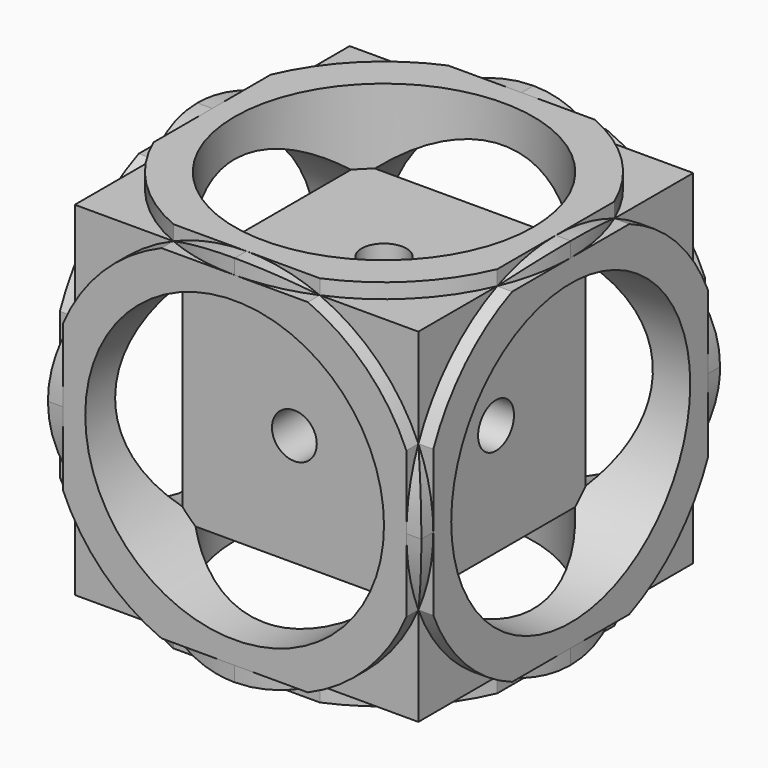
from build123d import *

# Parameters (mm, degrees)
F0_W          = 50
F0_H          = 50
F1_DEPTH      = 25
F1_DEPTH_BACK = 25
F3_D          = 40
F5_D          = 40
F7_D          = 40
F8_W          = 30
F8_H          = 30
F9_DEPTH      = 15
F9_DEPTH_BACK = 15
F17_DEPTH     = 2
F18_DEPTH     = 2
F19_DEPTH     = 2
F20_DEPTH     = 2
F21_DEPTH     = 2
F22_DEPTH     = 2
F23_DEPTH     = 2
F25_D         = 6
F27_D         = 6
F29_D         = 6


with BuildPart() as f1:
    # F0 (on Front) → F1 (new body, two sides)
    with BuildSketch(Plane.XZ) as f1_sk:
        Rectangle(F0_W, F0_H)
    extrude(amount=F1_DEPTH)
    extrude(f1_sk.sketch, amount=-F1_DEPTH_BACK)

    # F3 (through all)
    with Locations(Plane.YZ.offset(25)):
        with Locations((0, 0)):
            Hole(F3_D / 2)

    # F5 (through all)
    with Locations(Plane.XY.offset(25)):
        with Locations((0, 0)):
            Hole(F5_D / 2)

    # F7 (through all)
    with Locations(Plane.XZ.offset(25)):
        with Locations((0, 0)):
            Hole(F7_D / 2)

    # F8 (on Top) → F9 (join, two sides)
    with BuildSketch(Plane.XY) as f9_sk:
        Rectangle(F8_W, F8_H)
    extrude(amount=F9_DEPTH)
    extrude(f9_sk.sketch, amount=-F9_DEPTH_BACK)

    # F10 (on face) → F17 (cut)
    with BuildSketch(Plane(origin=(0, 25, 0), x_dir=(-1, 0, 0), z_dir=(0, 1, 0))):
        with BuildLine():
            ThreePointArc((0, 25), (17.6776695297, 17.6776695297), (25, 0))
            Line((25, 0), (25, 25))
            Line((25, 25), (0, 25))
        make_face()
        with BuildLine():
            ThreePointArc((-25, 2.61e-08), (-17.6776695204, 17.6776695389), (0, 25))
            Line((0, 25), (-25, 25))
            Line((-25, 25), (-25, 2.61e-08))
        make_face()
        with BuildLine():
            Line((-25, -25), (-5.83e-08, -25))
            ThreePointArc((-5.83e-08, -25), (-17.6776695595, -17.6776694998), (-25, 2.61e-08))
            Line((-25, 2.61e-08), (-25, -25))
        make_face()
        with BuildLine():
            Line((25, -25), (25, 0))
            ThreePointArc((25, 0), (17.677669509, -17.6776695503), (-5.83e-08, -25))
            Line((-5.83e-08, -25), (25, -25))
        make_face()
    extrude(amount=F17_DEPTH, mode=Mode.SUBTRACT)

    # F15 (on face) → F18 (cut)
    with BuildSketch(Plane.XZ.offset(25)):
        with BuildLine():
            ThreePointArc((-25, 2.61e-08), (-17.6776695204, 17.6776695389), (0, 25))
            Line((0, 25), (-25, 25))
            Line((-25, 25), (-25, 2.61e-08))
        make_face()
        with BuildLine():
            Line((-25, -25), (-5.83e-08, -25))
            ThreePointArc((-5.83e-08, -25), (-17.6776695595, -17.6776694998), (-25, 2.61e-08))
            Line((-25, 2.61e-08), (-25, -25))
        make_face()
        with BuildLine():
            Line((25, -25), (25, 0))
            ThreePointArc((25, 0), (17.677669509, -17.6776695503), (-5.83e-08, -25))
            Line((-5.83e-08, -25), (25, -25))
        make_face()
        with BuildLine():
            ThreePointArc((0, 25), (17.6776695297, 17.6776695297), (25, 0))
            Line((25, 0), (25, 25))
            Line((25, 25), (0, 25))
        make_face()
    extrude(amount=-F18_DEPTH, mode=Mode.SUBTRACT)

    # F12 (on face) → F19 (cut)
    with BuildSketch(Plane.XY.offset(25)):
        with BuildLine():
            Line((-25, -25), (-5.83e-08, -25))
            ThreePointArc((-5.83e-08, -25), (-17.6776695595, -17.6776694998), (-25, 2.61e-08))
            Line((-25, 2.61e-08), (-25, -25))
        make_face()
        with BuildLine():
            ThreePointArc((-25, 2.61e-08), (-17.6776695204, 17.6776695389), (0, 25))
            Line((0, 25), (-25, 25))
            Line((-25, 25), (-25, 2.61e-08))
        make_face()
        with BuildLine():
            ThreePointArc((0, 25), (17.6776695297, 17.6776695297), (25, 0))
            Line((25, 0), (25, 25))
            Line((25, 25), (0, 25))
        make_face()
        with BuildLine():
            Line((25, -25), (25, 0))
            ThreePointArc((25, 0), (17.677669509, -17.6776695503), (-5.83e-08, -25))
            Line((-5.83e-08, -25), (25, -25))
        make_face()
    extrude(amount=-F19_DEPTH, mode=Mode.SUBTRACT)

    # F13 (on face) → F20 (cut)
    with BuildSketch(Plane.YZ.offset(25)):
        with BuildLine():
            ThreePointArc((-25, 2.61e-08), (-17.6776695204, 17.6776695389), (0, 25))
            Line((0, 25), (-25, 25))
            Line((-25, 25), (-25, 2.61e-08))
        make_face()
        with BuildLine():
            ThreePointArc((0, 25), (17.6776695297, 17.6776695297), (25, 0))
            Line((25, 0), (25, 25))
            Line((25, 25), (0, 25))
        make_face()
        with BuildLine():
            Line((25, -25), (25, 0))
            ThreePointArc((25, 0), (17.677669509, -17.6776695503), (-5.83e-08, -25))
            Line((-5.83e-08, -25), (25, -25))
        make_face()
        with BuildLine():
            Line((-25, -25), (-5.83e-08, -25))
            ThreePointArc((-5.83e-08, -25), (-17.6776695595, -17.6776694998), (-25, 2.61e-08))
            Line((-25, 2.61e-08), (-25, -25))
        make_face()
    extrude(amount=-F20_DEPTH, mode=Mode.SUBTRACT)

    # F16 (on face) → F21 (cut)
    with BuildSketch(Plane(origin=(0, 25, 0), x_dir=(-1, 0, 0), z_dir=(0, 1, 0))):
        with BuildLine():
            ThreePointArc((-25, 2.61e-08), (-17.6776695204, 17.6776695389), (0, 25))
            Line((0, 25), (-25, 25))
            Line((-25, 25), (-25, 2.61e-08))
        make_face()
        with BuildLine():
            ThreePointArc((0, 25), (17.6776695297, 17.6776695297), (25, 0))
            Line((25, 0), (25, 25))
            Line((25, 25), (0, 25))
        make_face()
        with BuildLine():
            Line((25, -25), (25, 0))
            ThreePointArc((25, 0), (17.677669509, -17.6776695503), (-5.83e-08, -25))
            Line((-5.83e-08, -25), (25, -25))
        make_face()
        with BuildLine():
            Line((-25, -25), (-5.83e-08, -25))
            ThreePointArc((-5.83e-08, -25), (-17.6776695595, -17.6776694998), (-25, 2.61e-08))
            Line((-25, 2.61e-08), (-25, -25))
        make_face()
    extrude(amount=-F21_DEPTH, mode=Mode.SUBTRACT)

    # F11 (on face) → F22 (cut)
    with BuildSketch(Plane(origin=(-25, 0, 0), x_dir=(0, -1, 0), z_dir=(-1, 0, 0))):
        with BuildLine():
            ThreePointArc((-25, 2.61e-08), (-17.6776695204, 17.6776695389), (0, 25))
            Line((0, 25), (-25, 25))
            Line((-25, 25), (-25, 2.61e-08))
        make_face()
        with BuildLine():
            ThreePointArc((0, 25), (17.6776695297, 17.6776695297), (25, 0))
            Line((25, 0), (25, 25))
            Line((25, 25), (0, 25))
        make_face()
        with BuildLine():
            Line((25, -25), (25, 0))
            ThreePointArc((25, 0), (17.677669509, -17.6776695503), (-5.83e-08, -25))
            Line((-5.83e-08, -25), (25, -25))
        make_face()
        with BuildLine():
            Line((-25, -25), (-5.83e-08, -25))
            ThreePointArc((-5.83e-08, -25), (-17.6776695595, -17.6776694998), (-25, 2.61e-08))
            Line((-25, 2.61e-08), (-25, -25))
        make_face()
    extrude(amount=-F22_DEPTH, mode=Mode.SUBTRACT)

    # F14 (on face) → F23 (cut)
    with BuildSketch(Plane(origin=(0, 0, -25), x_dir=(1, 0, 0), z_dir=(0, 0, -1))):
        with BuildLine():
            ThreePointArc((-25, 2.61e-08), (-17.6776695204, 17.6776695389), (0, 25))
            Line((0, 25), (-25, 25))
            Line((-25, 25), (-25, 2.61e-08))
        make_face()
        with BuildLine():
            Line((-25, -25), (-5.83e-08, -25))
            ThreePointArc((-5.83e-08, -25), (-17.6776695595, -17.6776694998), (-25, 2.61e-08))
            Line((-25, 2.61e-08), (-25, -25))
        make_face()
        with BuildLine():
            Line((25, -25), (25, 0))
            ThreePointArc((25, 0), (17.677669509, -17.6776695503), (-5.83e-08, -25))
            Line((-5.83e-08, -25), (25, -25))
        make_face()
        with BuildLine():
            ThreePointArc((0, 25), (17.6776695297, 17.6776695297), (25, 0))
            Line((25, 0), (25, 25))
            Line((25, 25), (0, 25))
        make_face()
    extrude(amount=-F23_DEPTH, mode=Mode.SUBTRACT)

    # F25 (through all)
    with Locations(Plane.YZ.offset(15)):
        with Locations((0, 0)):
            Hole(F25_D / 2)

    # F27 (through all)
    with Locations(Plane(origin=(0, 15, 0), x_dir=(-1, 0, 0), z_dir=(0, 1, 0))):
        with Locations((0, 0)):
            Hole(F27_D / 2)

    # F29 (through all)
    with Locations(Plane(origin=(0, 0, -15), x_dir=(1, 0, 0), z_dir=(0, 0, -1))):
        with Locations((0, 0)):
            Hole(F29_D / 2)


solid = f1.part
